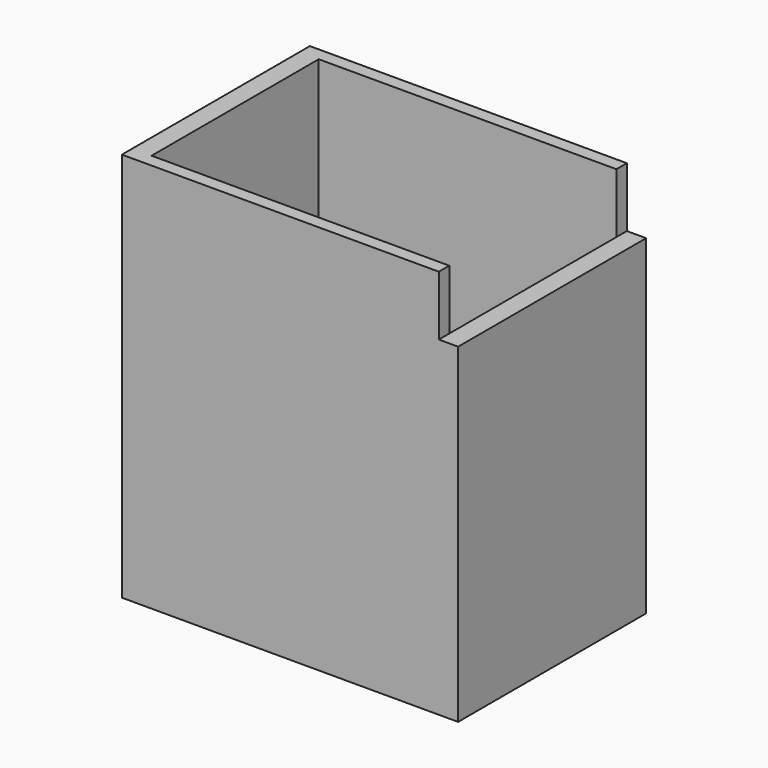
from build123d import *

# Parameters (mm, degrees)
F0_W     = 122.23322317
F0_H     = 26.7385169864
F1_DEPTH = 45
F2_DEPTH = 40
F3_DEPTH = 40


with BuildPart() as f1:
    # F0 (on Front) → F1 (new body, symmetric)
    with BuildSketch(Plane.XZ):
        with BuildLine():
            Line((-57.0032522082, 75.0096067786), (-64.3862187862, 75.0096067786))
            Line((-64.3862187862, 75.0096067786), (-64.3862187862, -74.3724256754))
            Line((-64.3862187862, -74.3724256754), (0, -74.3724256754))
            Line((0, -74.3724256754), (64.3862187862, -74.3724256754))
            Line((64.3862187862, -74.3724256754), (64.3862187862, 52.1305650473))
            Line((64.3862187862, 52.1305650473), (57.0032522082, 52.1305650473))
            Line((57.0032522082, 52.1305650473), (57.0032522082, 15.2034306045))
            ThreePointArc((57.0032522082, 15.2034306045), (41.1532258631, -24.2843129669), (2.40046245, -41.8549861284))
            ThreePointArc((2.40046245, -41.8549861284), (-0.213800426, -43.1045012545), (-2.8236144574, -41.8457204329))
            ThreePointArc((-2.8236144574, -41.8457204329), (-39.6712510694, -25.9900753758), (-57.0032522082, 10.1865958446))
            Line((-57.0032522082, 10.1865958446), (-57.0032522082, 75.0096067786))
        make_face()
        with Locations((0.1888852566, -56.8894036114)):
            Rectangle(F0_W, F0_H, mode=Mode.SUBTRACT)
        with BuildLine():
            Line((57.0032522082, 75.0096067786), (-57.0032522082, 75.0096067786))
            Line((-57.0032522082, 75.0096067786), (-57.0032522082, 10.1865958446))
            ThreePointArc((-57.0032522082, 10.1865958446), (-39.6712510694, -25.9900753758), (-2.8236144574, -41.8457204329))
            ThreePointArc((-2.8236144574, -41.8457204329), (-0.2116819988, -41.9101142032), (2.40046245, -41.8549861284))
            ThreePointArc((2.40046245, -41.8549861284), (41.1532258631, -24.2843129669), (57.0032522082, 15.2034306045))
            Line((57.0032522082, 15.2034306045), (57.0032522082, 52.1305650473))
            Line((57.0032522082, 52.1305650473), (57.0032522082, 75.0096067786))
        make_face()
        with Locations((0.1888852566, -56.8894036114)):
            Rectangle(F0_W, F0_H)
        with BuildLine():
            ThreePointArc((2.40046245, -41.8549861284), (-0.2116819988, -41.9101142032), (-2.8236144574, -41.8457204329))
            ThreePointArc((-2.8236144574, -41.8457204329), (-0.213800426, -43.1045012545), (2.40046245, -41.8549861284))
        make_face()
    extrude(amount=F1_DEPTH, both=True)

    # F0 (on Front) → F2 (cut, symmetric)
    with BuildSketch(Plane.XZ):
        with BuildLine():
            Line((57.0032522082, 75.0096067786), (-57.0032522082, 75.0096067786))
            Line((-57.0032522082, 75.0096067786), (-57.0032522082, 10.1865958446))
            ThreePointArc((-57.0032522082, 10.1865958446), (-39.6712510694, -25.9900753758), (-2.8236144574, -41.8457204329))
            ThreePointArc((-2.8236144574, -41.8457204329), (-0.2116819988, -41.9101142032), (2.40046245, -41.8549861284))
            ThreePointArc((2.40046245, -41.8549861284), (41.1532258631, -24.2843129669), (57.0032522082, 15.2034306045))
            Line((57.0032522082, 15.2034306045), (57.0032522082, 52.1305650473))
            Line((57.0032522082, 52.1305650473), (57.0032522082, 75.0096067786))
        make_face()
        with BuildLine():
            ThreePointArc((2.40046245, -41.8549861284), (-0.2116819988, -41.9101142032), (-2.8236144574, -41.8457204329))
            ThreePointArc((-2.8236144574, -41.8457204329), (-0.213800426, -43.1045012545), (2.40046245, -41.8549861284))
        make_face()
    extrude(amount=F2_DEPTH, both=True, mode=Mode.SUBTRACT)

    # F0 (on Front) → F3 (cut, symmetric)
    with BuildSketch(Plane.XZ):
        with Locations((0.1888852566, -56.8894036114)):
            Rectangle(F0_W, F0_H)
    extrude(amount=F3_DEPTH, both=True, mode=Mode.SUBTRACT)


solid = f1.part
